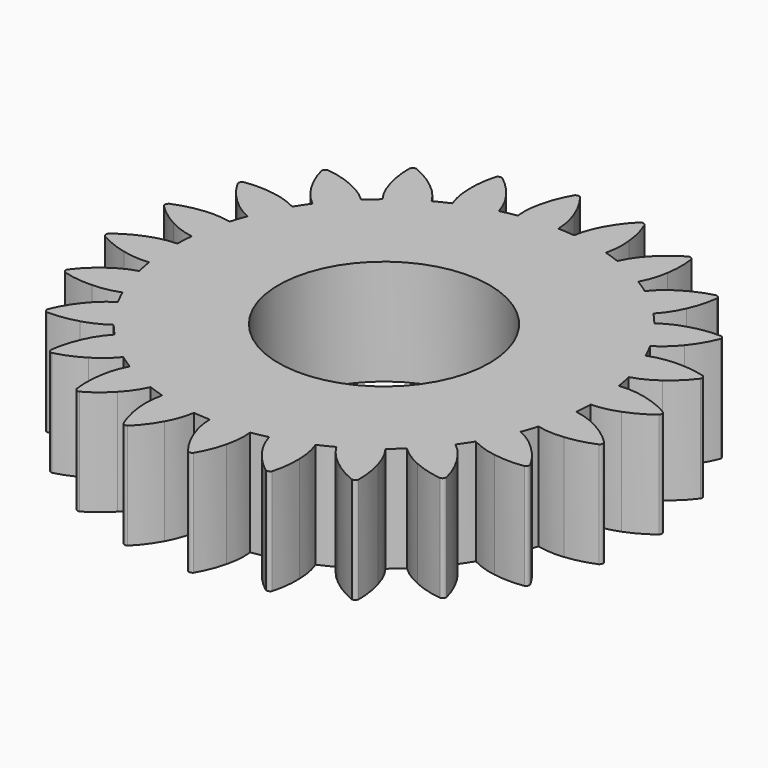
from build123d import *

# Parameters (mm, degrees)
F0_R     = 2
F1_DEPTH = 2
F2_COUNT = 24


with BuildPart() as f1:
    # F0 (on Top) → F1 (new body)
    with BuildSketch(Plane.XY):
        with BuildLine():
            ThreePointArc((-0.6251, 3.950854), (-2.598038, -3.041414), (4, 0))
            ThreePointArc((4, 0), (2.864982, 2.791393), (0.104062, 3.998646))
            ThreePointArc((0.104062, 3.998646), (-0.261613, 3.991436), (-0.6251, 3.950854))
        make_face()
        Circle(F0_R, mode=Mode.SUBTRACT)
        with BuildLine():
            ThreePointArc((-0.6251, 3.950854), (-0.261613, 3.991436), (0.104062, 3.998646))
            ThreePointArc((0.104062, 3.998646), (0.074387, 4.253964), (0, 4.500001))
            ThreePointArc((0, 4.500001), (-0.119919, 4.756834), (-0.277746, 4.99228))
            ThreePointArc((-0.277746, 4.99228), (-0.328207, 5.007469), (-0.376253, 4.985823))
            ThreePointArc((-0.376253, 4.985823), (-0.501998, 4.731791), (-0.587368, 4.461503))
            ThreePointArc((-0.587368, 4.461503), (-0.629004, 4.207861), (-0.6251, 3.950854))
        make_face()
    extrude(amount=F1_DEPTH)

    # F2: F1 ×24 about axis
    f2_axis = Axis((0, 0, 0), (0, 0, -1))


with BuildPart() as f1_1:
    add(f1.part)
    for i in range(1, F2_COUNT):
        add(f1.part.rotate(f2_axis, i * 360 / F2_COUNT))


solid = f1_1.part
